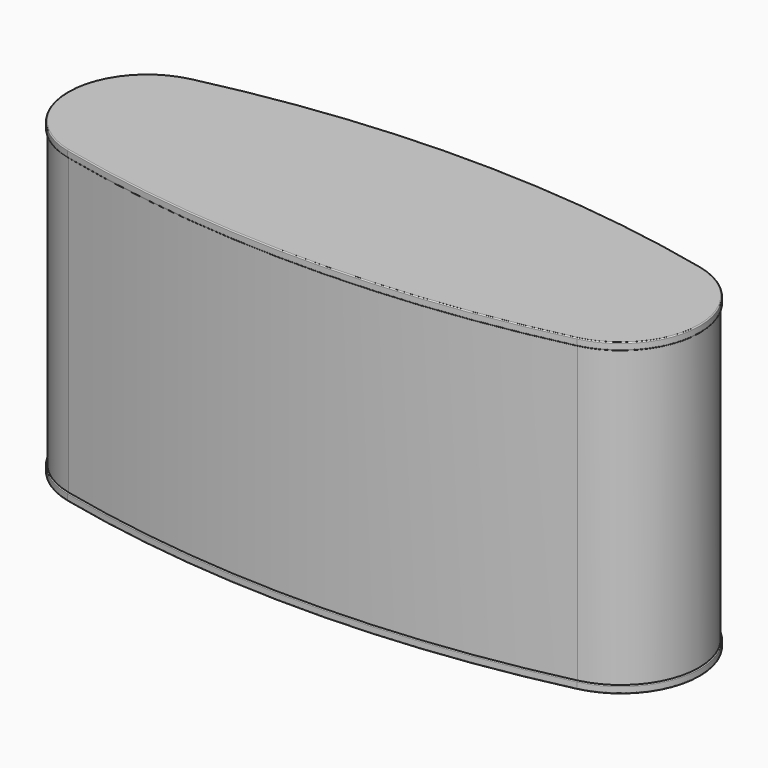
from build123d import *

# Parameters (mm, degrees)
F1_DEPTH = 120
F0_W     = 190
F0_H     = 58
F0_W_2   = 180
F0_H_2   = 48
F2_DEPTH = 3
F6_DEPTH = 3
F7_R     = 0.4
F7_2_R   = 0.4


with BuildPart() as f1:
    # F0 (on Top) → F1 (new body)
    with BuildSketch(Plane.XY):
        with BuildLine():
            ThreePointArc((103.600252035, -30.9831873905), (128.2390999543, 0), (103.600252035, 30.9831873905))
            ThreePointArc((103.600252035, 30.9831873905), (0, 42.8), (-103.600252035, 30.9831873905))
            ThreePointArc((-103.600252035, 30.9831873905), (-128.2390999543, 0), (-103.600252035, -30.9831873905))
            ThreePointArc((-103.600252035, -30.9831873905), (0, -42.8), (103.600252035, -30.9831873905))
        make_face()
        with BuildLine():
            ThreePointArc((-95, 29), (0, 39), (95, 29))
            ThreePointArc((95, 29), (98.8759950973, 28.157229503), (102.7445168807, 27.2807939288))
            ThreePointArc((102.7445168807, 27.2807939288), (124.4390999543, 0), (102.7445168807, -27.2807939288))
            ThreePointArc((102.7445168807, -27.2807939288), (98.8759950973, -28.157229503), (95, -29))
            ThreePointArc((95, -29), (0, -39), (-95, -29))
            ThreePointArc((-95, -29), (-98.8759950973, -28.157229503), (-102.7445168807, -27.2807939288))
            ThreePointArc((-102.7445168807, -27.2807939288), (-124.4390999543, 0), (-102.7445168807, 27.2807939288))
            ThreePointArc((-102.7445168807, 27.2807939288), (-98.8759950973, 28.157229503), (-95, 29))
        make_face(mode=Mode.SUBTRACT)
    extrude(amount=F1_DEPTH)


with BuildPart() as f1b:
    # F0 (on Top) → F1, piece 2 (new body)
    with BuildSketch(Plane.XY):
        Rectangle(F0_W, F0_H)
        Rectangle(F0_W_2, F0_H_2, mode=Mode.SUBTRACT)
    extrude(amount=F1_DEPTH)


with BuildPart() as f2:
    # F0 (on Top) + F1_face (on face) → F2 (new body)
    with BuildSketch(Plane.XY):
        with BuildLine():
            ThreePointArc((103.6903294197, -31.3729130181), (128.6390999543, 0), (103.6903294197, 31.3729130181))
            ThreePointArc((103.6903294197, 31.3729130181), (0, 43.2), (-103.6903294197, 31.3729130181))
            ThreePointArc((-103.6903294197, 31.3729130181), (-128.6390999543, 0), (-103.6903294197, -31.3729130181))
            ThreePointArc((-103.6903294197, -31.3729130181), (0, -43.2), (103.6903294197, -31.3729130181))
        make_face()
        with BuildLine():
            ThreePointArc((-103.600252035, 30.9831873905), (0, 42.8), (103.600252035, 30.9831873905))
            ThreePointArc((103.600252035, 30.9831873905), (128.2390999543, 0), (103.600252035, -30.9831873905))
            ThreePointArc((103.600252035, -30.9831873905), (0, -42.8), (-103.600252035, -30.9831873905))
            ThreePointArc((-103.600252035, -30.9831873905), (-128.2390999543, 0), (-103.600252035, 30.9831873905))
        make_face(mode=Mode.SUBTRACT)
        with BuildLine():
            ThreePointArc((102.7445168807, 27.2807939288), (98.8759950973, 28.157229503), (95, 29))
            Line((95, 29), (95, -29))
            ThreePointArc((95, -29), (98.8759950973, -28.157229503), (102.7445168807, -27.2807939288))
            ThreePointArc((102.7445168807, -27.2807939288), (124.4390999543, 0), (102.7445168807, 27.2807939288))
        make_face()
        with BuildLine():
            Line((-95, 29), (95, 29))
            ThreePointArc((95, 29), (0, 39), (-95, 29))
        make_face()
        Rectangle(F0_W, F0_H)
        Rectangle(F0_W_2, F0_H_2, mode=Mode.SUBTRACT)
        Rectangle(F0_W_2, F0_H_2)
        with BuildLine():
            ThreePointArc((-95, -29), (0, -39), (95, -29))
            Line((95, -29), (-95, -29))
        make_face()
        with BuildLine():
            Line((-95, -29), (-95, 29))
            ThreePointArc((-95, 29), (-98.8759950973, 28.157229503), (-102.7445168807, 27.2807939288))
            ThreePointArc((-102.7445168807, 27.2807939288), (-124.4390999543, 0), (-102.7445168807, -27.2807939288))
            ThreePointArc((-102.7445168807, -27.2807939288), (-98.8759950973, -28.157229503), (-95, -29))
        make_face()
    with BuildSketch(Plane(origin=(0, -1e-10, 0), x_dir=(1, 0, 0), z_dir=(0, 0, -1))):
        with BuildLine():
            ThreePointArc((103.600252035, 30.9831873904), (0, 42.7999999999), (-103.600252035, 30.9831873904))
            ThreePointArc((-103.600252035, 30.9831873904), (-128.2390999543, -1e-10), (-103.600252035, -30.9831873907))
            ThreePointArc((-103.600252035, -30.9831873907), (0, -42.8000000001), (103.600252035, -30.9831873907))
            ThreePointArc((103.600252035, -30.9831873907), (128.2390999543, -1e-10), (103.600252035, 30.9831873904))
        make_face()
        with BuildLine():
            ThreePointArc((-102.7445168807, -27.2807939289), (-124.4390999543, -1e-10), (-102.7445168807, 27.2807939287))
            ThreePointArc((-102.7445168807, 27.2807939286), (0, 38.9999999999), (102.7445168807, 27.2807939287))
            ThreePointArc((102.7445168807, 27.2807939287), (124.4390999543, -1e-10), (102.7445168807, -27.2807939289))
            ThreePointArc((102.7445168807, -27.2807939289), (0, -39.0000000001), (-102.7445168807, -27.2807939289))
        make_face(mode=Mode.SUBTRACT)
    extrude(amount=-F2_DEPTH, dir=(0, 0, 1))

    # F3: union 

    # F4: union 

    # F7#2
    f7_2_edges = [f2.edges().sort_by_distance(p)[0] for p in [
        (-128.6391, 0, 0),
        (0, -43.2, 0),
        (128.6391, 0, 0),
        (0, 43.2, 0),
        (-128.6391, 0, -3),
        (0, -43.2, -3),
        (128.6391, 0, -3),
        (0, 43.2, -3),
    ]]
    fillet(f7_2_edges, radius=F7_2_R)


with BuildPart() as f6:
    # F5 (on face) → F6 (new body)
    with BuildSketch(Plane.XY.offset(120)):
        with BuildLine():
            ThreePointArc((-103.6903294197, 31.3729130181), (-128.6390999543, 0), (-103.6903294197, -31.3729130181))
            ThreePointArc((-103.6903294197, -31.3729130181), (0, -43.2), (103.6903294197, -31.3729130181))
            ThreePointArc((103.6903294197, -31.3729130181), (128.6390999543, 0), (103.6903294197, 31.3729130181))
            ThreePointArc((103.6903294197, 31.3729130181), (0, 43.2), (-103.6903294197, 31.3729130181))
        make_face()
    extrude(amount=F6_DEPTH)

    # F7
    f7_edges = [f6.edges().sort_by_distance(p)[0] for p in [
        (-128.6391, 0, 123),
        (0, -43.2, 123),
        (128.6391, 0, 123),
        (0, 43.2, 123),
        (-128.6391, 0, 120),
        (0, -43.2, 120),
        (128.6391, 0, 120),
        (0, 43.2, 120),
    ]]
    fillet(f7_edges, radius=F7_R)


solid = Compound([f1.part, f1b.part, f2.part, f6.part])
